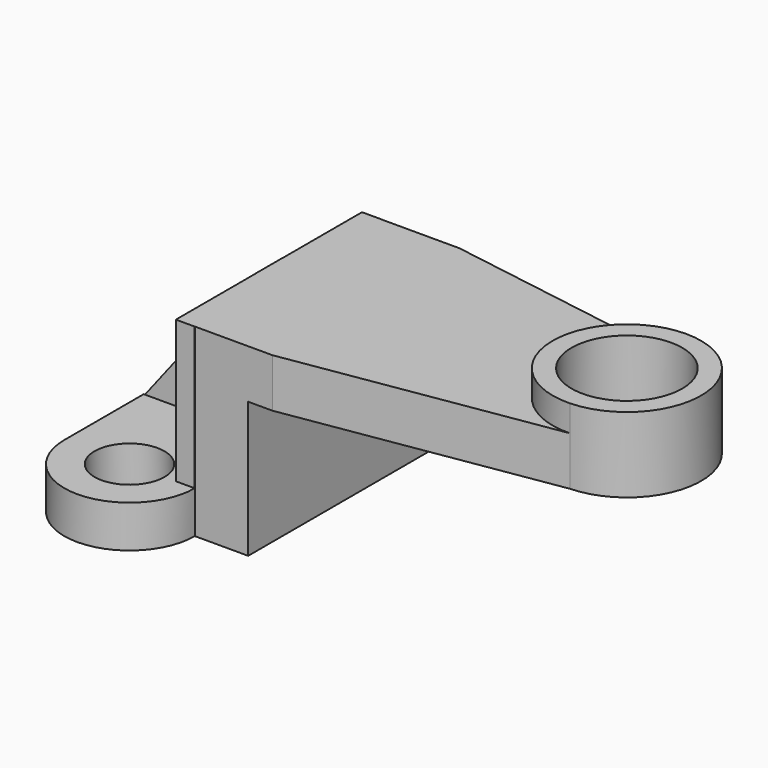
from build123d import *

# Parameters (mm, degrees)
SKETCH001_R          = 6.630792
SKETCH001_R_2        = 10.498697
PAD_DEPTH            = 40
POCKET_DEPTH         = 32
POCKET001_DEPTH      = 9
POCKET002_DEPTH      = 5
POCKET003_DEPTH      = 10
SKETCH005_W          = 94.298041
SKETCH005_H          = 32.366995
POCKET004_DEPTH      = 34.422931
POCKET004_DEPTH_BACK = -34.422931


with BuildPart() as part:
    # Sketch001 → Pad (new body)
    with BuildSketch(Plane.XY):
        with BuildLine():
            ThreePointArc((-19.821, 22.046589), (-32.196342, 34.421931), (-44.571684, 22.046589))
            Line((-44.571684, 22.046589), (-44.571684, -22.046589))
            ThreePointArc((-44.571684, -22.046589), (-32.196342, -34.421931), (-19.821, -22.046589))
            Line((-19.821, -22.046589), (-5.074877, -22.046589))
            Line((45.00301, -14.074842), (-5.074877, -22.046589))
            ThreePointArc((45.00301, -14.074842), (58.588852, 0.32742), (44.348215, 14.082584))
            Line((-4.908487, 22.046589), (44.348215, 14.082584))
            Line((-19.821, 22.046589), (-4.908487, 22.046589))
        make_face()
        with Locations((-32.196342, 22.046589)):
            Circle(SKETCH001_R, mode=Mode.SUBTRACT)
        with Locations((-32.196342, -22.046589)):
            Circle(SKETCH001_R, mode=Mode.SUBTRACT)
        with Locations((44.509155, 0)):
            Circle(SKETCH001_R_2, mode=Mode.SUBTRACT)
    extrude(amount=PAD_DEPTH)

    # Sketch002 → Pocket (cut)
    with BuildSketch(Plane.XY.offset(40)):
        with BuildLine():
            ThreePointArc((-19.354646, 22.067252), (-32.292828, 34.810367), (-45.101294, 21.936878))
            Line((-45.101294, 21.936878), (-45.101294, -21.936878))
            ThreePointArc((-45.101294, -21.936878), (-32.29321, -34.810365), (-19.354654, -22.068018))
            Line((-23.390144, -22.068018), (-19.354654, -22.068018))
            Line((-23.390144, -3.218184), (-23.390144, -22.068018))
            Line((-44.728828, -3.218184), (-23.390144, -3.218184))
            Line((-44.728828, 3.218184), (-44.728828, -3.218184))
            Line((-23.390144, 3.218184), (-44.728828, 3.218184))
            Line((-23.390144, 22.067252), (-23.390144, 3.218184))
            Line((-19.354646, 22.067252), (-23.390144, 22.067252))
        make_face()
    extrude(amount=-POCKET_DEPTH, mode=Mode.SUBTRACT)

    # Sketch003 (on Face17 of Pocket) → Pocket001 (cut)
    with BuildSketch(Plane.XZ.offset(3.218184)):
        Polygon((-22.446281, 41.467144), (-45.756935, 6.110793), (-48.87989, 41.467144), align=None)
    extrude(amount=-POCKET001_DEPTH, mode=Mode.SUBTRACT)

    # Sketch → Pocket002 (cut)
    with BuildSketch(Plane.XY.offset(40)):
        with BuildLine():
            Line((-51.758927, -23.019849), (-51.572633, 22.533843))
            Line((-51.572633, 22.533843), (-4.833725, 22.533843))
            Line((-4.833725, 22.533843), (44.348215, 14.082584))
            ThreePointArc((44.348215, 14.082584), (30.429458, -0.32742), (45.00301, -14.074842))
            Line((45.00301, -14.074842), (-5.186409, -23.019849))
            Line((-51.758927, -23.019849), (-5.186409, -23.019849))
        make_face()
    extrude(amount=-POCKET002_DEPTH, mode=Mode.SUBTRACT)

    # Sketch004 (on Face23 of Pocket002) → Pocket003 (cut)
    with BuildSketch(Plane.XZ.offset(3.218184)):
        Polygon((-20.760923, 38.424774), (-49.368839, 1.506935), (-41.058918, 38.424774), align=None)
    extrude(amount=-POCKET003_DEPTH, mode=Mode.SUBTRACT)

    # Sketch005 → Pocket004 (cut, two sides)
    with BuildSketch(Plane.XZ) as pocket004_sk:
        with Locations((37.4594, 9.552193)):
            Rectangle(SKETCH005_W, SKETCH005_H)
    extrude(amount=-POCKET004_DEPTH, mode=Mode.SUBTRACT)
    extrude(pocket004_sk.sketch, amount=-POCKET004_DEPTH_BACK, mode=Mode.SUBTRACT)


solid = part.part
